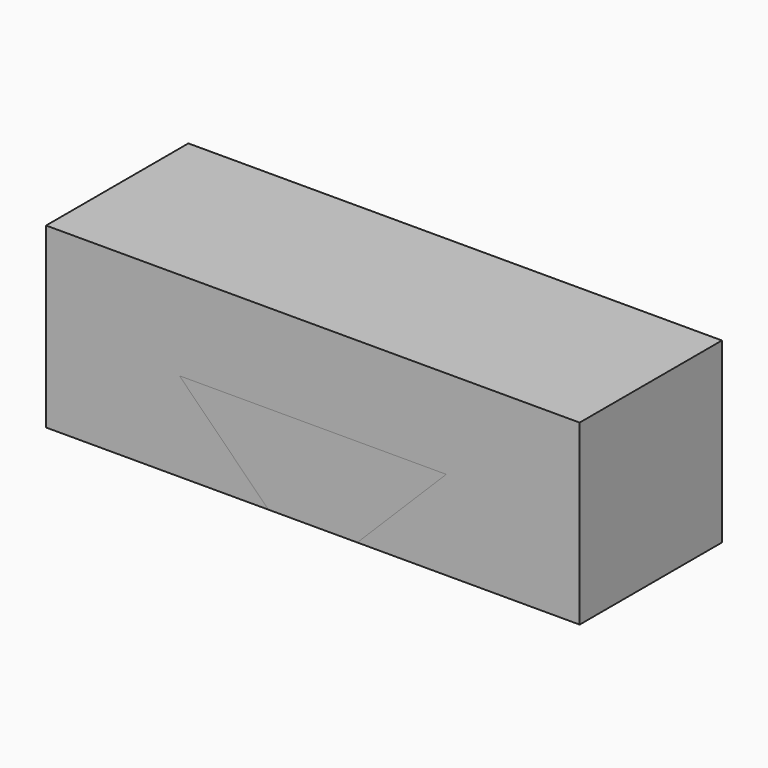
from build123d import *

# Parameters (mm, degrees)
PAD_DEPTH    = 10
PAD001_DEPTH = 10


with BuildPart() as lower:
    # Sketch → Pad (new body)
    with BuildSketch(Plane.XZ):
        Polygon((-15, 0), (15, 0), (15, 5), (2.4, 5), (7.4, 10), (-7.4, 10), (-2.4, 5), (-15, 5), align=None)
    extrude(amount=PAD_DEPTH)


with BuildPart() as body:
    # Sketch001 → Pad001 (new body)
    with BuildSketch(Plane.XZ):
        Polygon((-15, 0), (-2.5, 0), (-7.5, 5), (7.5, 5), (2.5, 0), (15, 0), (15, 10), (-15, 10), align=None)
    extrude(amount=PAD001_DEPTH)


solid = Compound([lower.part, body.part])
